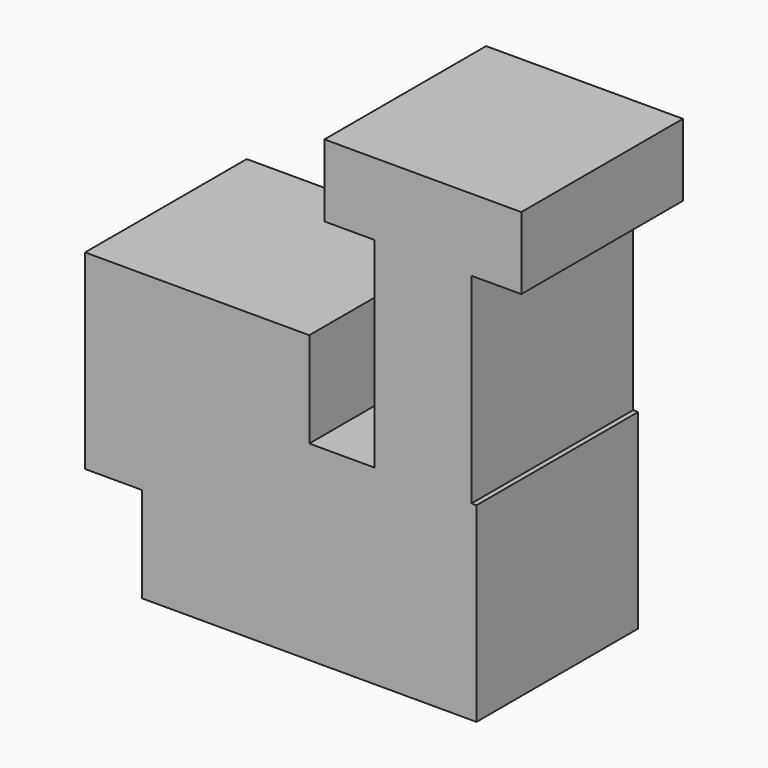
from build123d import *

# Parameters (mm, degrees)
F0_W     = 21.018769592
F0_H     = 11.9857266545
F0_W_2   = 12.2150108218
F0_H_2   = 25.194466114
F0_H_3   = 9.7301751375
F0_H_4   = 4.5397132635
F1_DEPTH = 25.4


with BuildPart() as f1:
    # F0 (on Front) → F1 (new body)
    with BuildSketch(Plane.XZ):
        Polygon((0, 0), (0, -11.9857266545), (-21.018769592, -11.9857266545), (-21.018769592, -23.9714533091), (21.018769592, -23.9714533091), (21.018769592, 0), (20.3827284276, 0), (20.3827284276, -9.7301751375), (8.1677176058, -9.7301751375), (8.1677176058, 0), align=None)
        with Locations((-10.509384796, -5.9928633273)):
            Rectangle(F0_W, F0_H)
        Polygon((-28.1847268343, -11.9857266545), (-21.018769592, -11.9857266545), (-21.018769592, 0), (0, 0), (0, 11.9857266545), (-28.1847268343, 11.9857266545), align=None)
        with Locations((14.2752230167, 12.597233057)):
            Rectangle(F0_W_2, F0_H_2)
        with Locations((14.2752230167, -4.8650875688)):
            Rectangle(F0_W_2, F0_H_3)
        Polygon((1.9051171839, 25.194466114), (8.1677176058, 25.194466114), (8.1677176058, 29.7341793776), (20.3827284276, 29.7341793776), (20.3827284276, 25.194466114), (26.6453288496, 25.194466114), (26.6453288496, 34.2738926411), (1.9051171839, 34.2738926411), align=None)
        with Locations((14.2752230167, 27.4643227458)):
            Rectangle(F0_W_2, F0_H_4)
    extrude(amount=F1_DEPTH)


solid = f1.part
